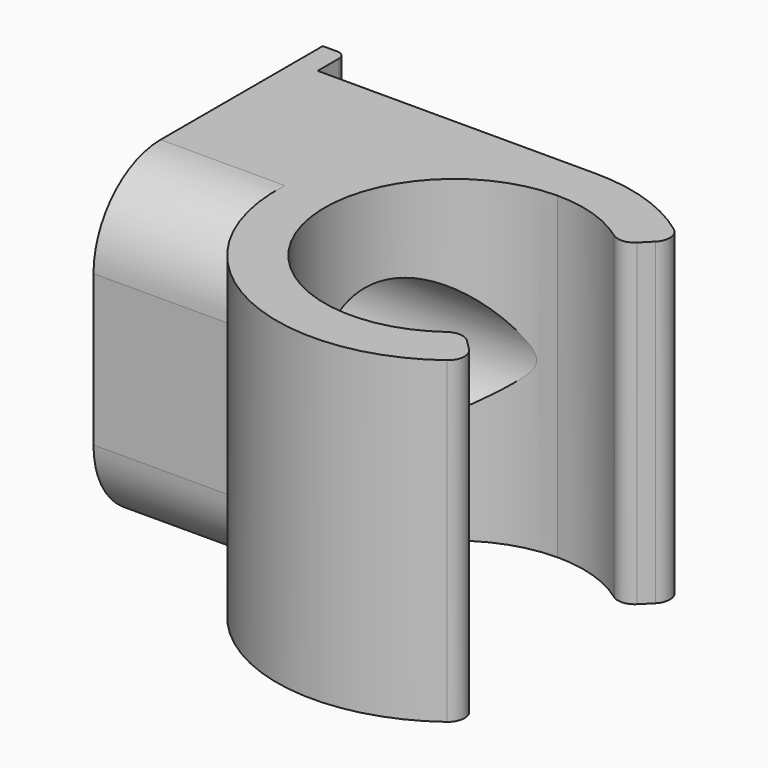
from build123d import *

# Parameters (mm, degrees)
F0_W     = 1.376042
F0_H     = 15
F1_DEPTH = 19
F2_R     = 5
F3_R     = 4.06
F4_DEPTH = 17
F5_R     = 4.15
F5_R_2   = 2.15
F6_DEPTH = 3


with BuildPart() as f1:
    # F0 (on Top) → F1 (new body)
    with BuildSketch(Plane.XY):
        with BuildLine():
            ThreePointArc((-27.724563, 11.37891), (-27.434191, 12.156994), (-27.831811, 12.886122))
            ThreePointArc((-27.831811, 12.886122), (-30.832093, 14.457622), (-34.175314, 15))
            Line((-34.175314, 15), (-34.175314, 12.15))
            ThreePointArc((-34.175314, 12.15), (-31.784278, 11.77065), (-29.628073, 10.669856))
            ThreePointArc((-29.628073, 10.669856), (-28.961501, 10.481293), (-28.332327, 10.771145))
            Line((-28.332327, 10.771145), (-27.724563, 11.37891))
        make_face()
        with BuildLine():
            Line((-34.175314, 12.15), (-34.175314, 15))
            ThreePointArc((-34.175314, 15), (-43.081071, 10.127467), (-43.78, 0))
            Line((-43.78, 0), (-40.507375, 0))
            ThreePointArc((-40.507375, 0), (-41.025816, 7.995189), (-34.175314, 12.15))
        make_face()
        with BuildLine():
            ThreePointArc((-43.78, 0), (-43.081071, 10.127467), (-34.175314, 15))
            Line((-34.175314, 15), (-50.774272, 15))
            Line((-50.774272, 15), (-50.774272, 0))
            Line((-50.774272, 0), (-43.78, 0))
        make_face()
        with BuildLine():
            Line((-40.507375, 0), (-43.78, 0))
            ThreePointArc((-43.78, 0), (-36.768247, -5.827186), (-27.829234, -4.03419))
            ThreePointArc((-27.829234, -4.03419), (-27.431848, -3.305092), (-27.72223, -2.52716))
            Line((-27.72223, -2.52716), (-28.329965, -1.919425))
            ThreePointArc((-28.329965, -1.919425), (-28.959306, -1.62956), (-29.625982, -1.818333))
            ThreePointArc((-29.625982, -1.818333), (-35.448544, -3.194351), (-40.507375, 0))
        make_face()
        with Locations((-51.462293, 7.5)):
            Rectangle(F0_W, F0_H)
        with BuildLine():
            Line((-52.150314, 15), (-50.774272, 15))
            Line((-50.774272, 15), (-50.774272, 16.6))
            ThreePointArc((-50.774272, 16.6), (-50.920718, 16.953553), (-51.274272, 17.1))
            Line((-51.274272, 17.1), (-52.150314, 17.1))
            Line((-52.150314, 17.1), (-52.150314, 15))
        make_face()
    extrude(amount=F1_DEPTH)

    # F2
    f2_edges = [f1.edges().sort_by_distance(p)[0] for p in [
        (-47.965157, 0, 19),
        (-47.965157, 0, 0),
    ]]
    fillet(f2_edges, radius=F2_R)

    # F3 (on face) → F4 (cut)
    with BuildSketch(Plane(origin=(-52.150314, 0, 0), x_dir=(0, -1, 0), z_dir=(-1, 0, 0))):
        with Locations((-8, 10)):
            Circle(F3_R)
    extrude(amount=-F4_DEPTH, mode=Mode.SUBTRACT)

    # F5 (on face) → F6 (join)
    with BuildSketch(Plane(origin=(-52.150314, 0, 0), x_dir=(0, -1, 0), z_dir=(-1, 0, 0))):
        with Locations((-8, 10)):
            Circle(F5_R)
        with Locations((-8, 10)):
            Circle(F5_R_2, mode=Mode.SUBTRACT)
    extrude(amount=-F6_DEPTH)


solid = f1.part
